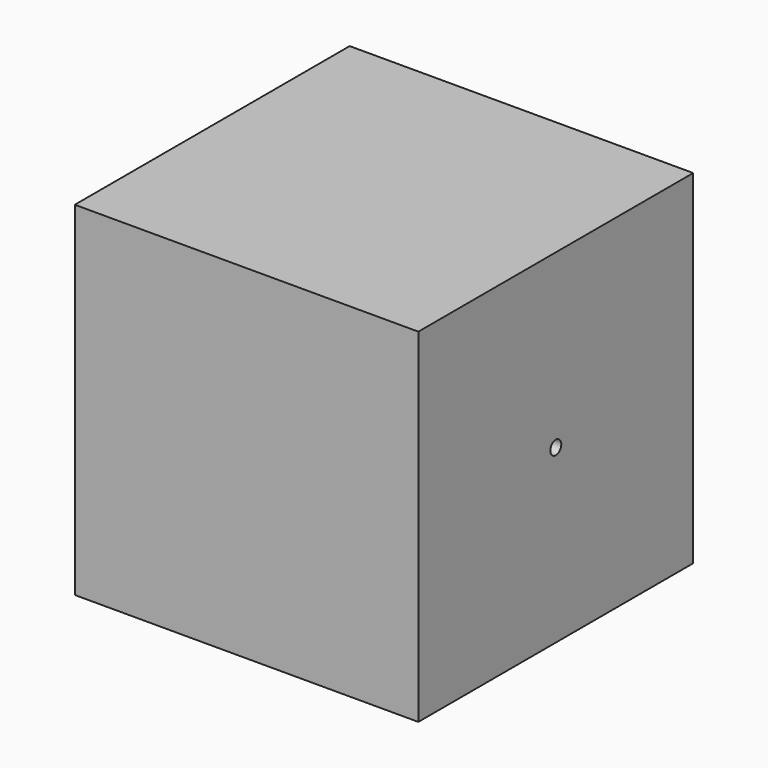
from build123d import *

# Parameters (mm, degrees)
F2_W     = 200
F2_H     = 200
F3_DEPTH = 200


with BuildPart() as f1:
    # F0 (on Front) → F1 (revolve)
    with BuildSketch(Plane.XZ):
        with BuildLine():
            Line((0, 1), (0, 0))
            Line((0, 0), (68.4652712196, 0))
            Line((68.4652712196, 0), (68.4652712196, 4))
            Line((68.4652712196, 4), (18.4652712196, 4))
            add(Edge.make_bspline(
                [(0, 1), (0, 1.4895908086), (4.855393481, 3.1693086379), (11.9006269585, 3.8174499144), (15.5344579131, 4), (18.4652712196, 4)],
                knots=[0, 0, 0, 0, 0.2842765861, 0.6512741765, 1, 1, 1, 1], degree=3))
        make_face()
    revolve(axis=Axis((34.2326356098, 0, 0), (1, 0, 0)))


with BuildPart() as f3:
    # F2 (on face) → F3 (new body)
    with BuildSketch(Plane.YZ.offset(68.4652712196)):
        Rectangle(F2_W, F2_H)
    extrude(amount=-F3_DEPTH)

    # F4: cut F1
    add(f1.part, mode=Mode.SUBTRACT)


solid = f3.part
